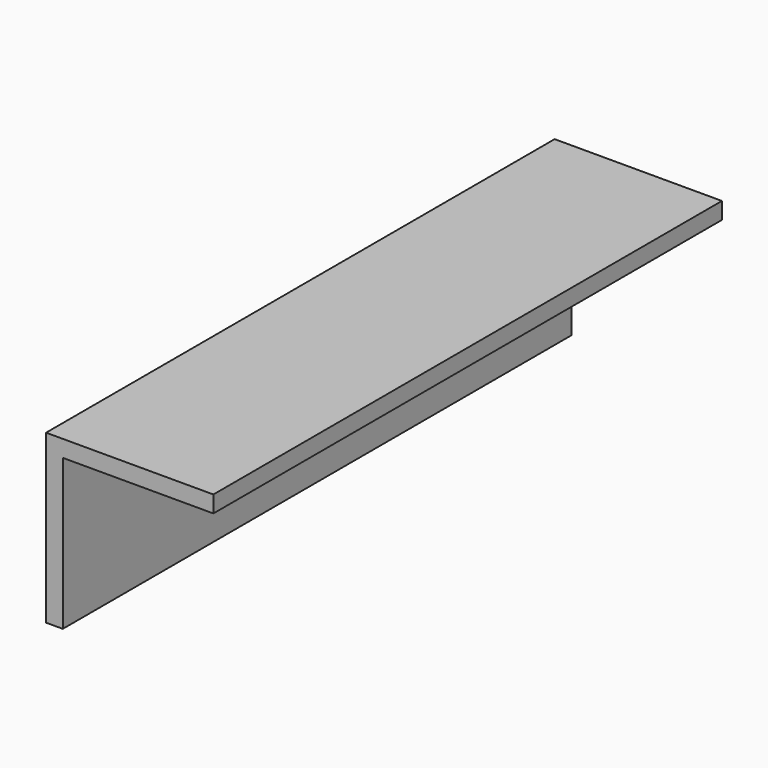
from build123d import *

# Parameters (mm, degrees)
F1_DEPTH = 190
F3_D     = 5


with BuildPart() as f1:
    # F0 (on Front) → F1 (new body)
    with BuildSketch(Plane.XZ):
        Polygon((0, 50), (0, 0), (5, 0), (5, 45), (50, 45), (50, 50), align=None)
    extrude(amount=F1_DEPTH)

    # F3 (through all)
    with Locations(Plane.YZ.offset(5)):
        with Locations((-140, 25), (-50, 25)):
            Hole(F3_D / 2)


solid = f1.part
